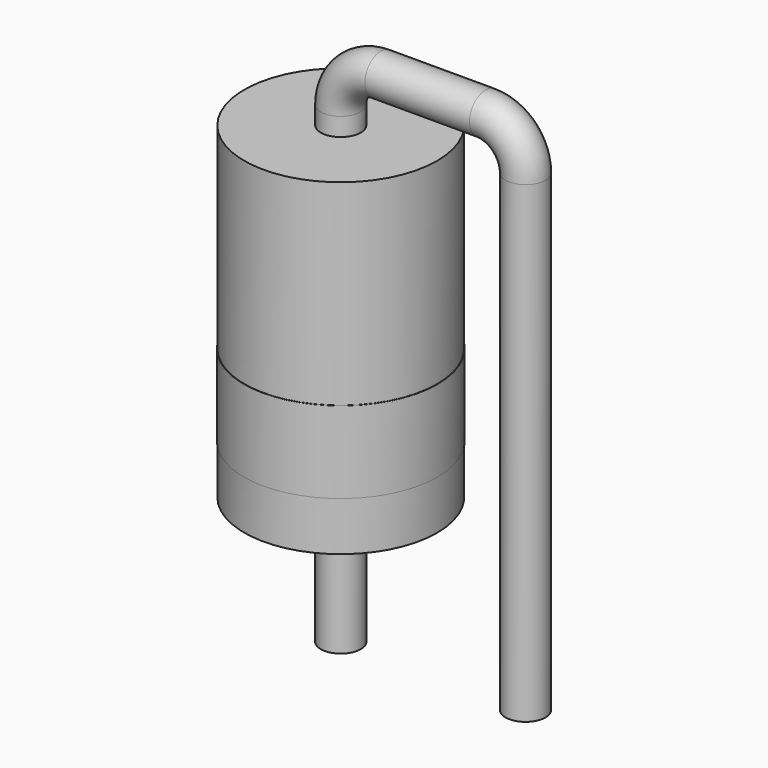
from build123d import *

# Parameters (mm, degrees)
SKETCH003_W = 2.66
SKETCH003_H = 2.25
SKETCH002_W = 2.65
SKETCH002_H = 9
SKETCH001_R = 0.55


with BuildPart() as revolution001:
    # Sketch003 → Revolution001 (revolve)
    with BuildSketch(Plane.XZ):
        with Locations((1.33, 2.975)):
            Rectangle(SKETCH003_W, SKETCH003_H)
    revolve(axis=Axis((0, 0, 0), (0, 0, 1)))


with BuildPart() as revolution:
    # Sketch002 → Revolution (revolve)
    with BuildSketch(Plane.XZ):
        with Locations((1.325, 5)):
            Rectangle(SKETCH002_W, SKETCH002_H)
    revolve(axis=Axis((0, 0, 0), (0, 0, 1)))


with BuildPart() as obj1:
    # Sweep: sweep along a path in Sketch
    with BuildLine(Plane.XZ) as sweep_path:
        Line((0, -3), (0, 10))
        ThreePointArc((0, 10), (0.322183, 10.777817), (1.1, 11.1))
        Line((1.1, 11.1), (3.98, 11.1))
        ThreePointArc((3.98, 11.1), (4.757817, 10.777817), (5.08, 10))
        Line((5.08, 10), (5.08, -3))
    # Sketch001 → Sweep (sweep)
    with BuildSketch(Plane.XY):
        Circle(SKETCH001_R)
    sweep(path=sweep_path.line)

    add(revolution001.part)
    add(revolution.part)


solid = obj1.part
